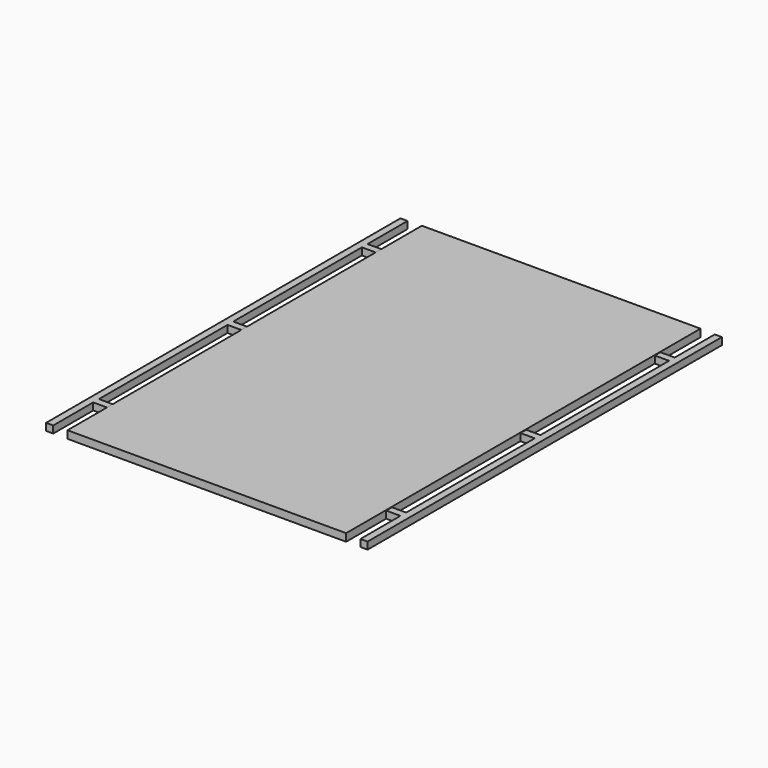
from build123d import *

# Parameters (mm, degrees)
F0_W      = 990.6
F0_H      = 1574.8
F1_DEPTH  = 1.5875
F2_W      = 990.6
F2_H      = 1574.8
F2_W_2    = 939.8
F2_H_2    = 749.3
F3_DEPTH  = 25.4
F4_W      = 25.4
F4_H      = 25.4
F5_DEPTH  = 50.8
F6_W      = 25.4
F6_H      = 25.4
F7_DEPTH  = 1574.8
F8_W      = 25.4
F8_H      = 25.4
F9_DEPTH  = 50.8
F10_W     = 25.4
F10_H     = 25.4
F11_DEPTH = 1574.8


with BuildPart() as f1:
    # F0 (on Top) → F1 (new body)
    with BuildSketch(Plane.XY):
        with Locations((495.3, -787.4)):
            Rectangle(F0_W, F0_H)
    extrude(amount=F1_DEPTH)

    # F2 (on face) → F3 (join)
    with BuildSketch(Plane(origin=(0, 0, 0), x_dir=(1, 0, 0), z_dir=(0, 0, -1))):
        with Locations((495.3, 787.4)):
            Rectangle(F2_W, F2_H)
        with Locations((495.3, 400.05)):
            Rectangle(F2_W_2, F2_H_2, mode=Mode.SUBTRACT)
        with Locations((495.3, 1174.75)):
            Rectangle(F2_W_2, F2_H_2, mode=Mode.SUBTRACT)
    extrude(amount=F3_DEPTH)

    # F4 (on face) → F5 (join)
    with BuildSketch(Plane(origin=(0, 0, 0), x_dir=(0, -1, 0), z_dir=(-1, 0, 0))):
        with Locations((190.5, -12.7)):
            Rectangle(F4_W, F4_H)
        with Locations((787.4, -12.7)):
            Rectangle(F4_W, F4_H)
        with Locations((1384.3, -12.7)):
            Rectangle(F4_W, F4_H)
    extrude(amount=F5_DEPTH)

    # F6 (on face) → F7 (join)
    with BuildSketch(Plane(origin=(0, 0, 0), x_dir=(-1, 0, 0), z_dir=(0, 1, 0))):
        with Locations((63.5, -12.7)):
            Rectangle(F6_W, F6_H)
    extrude(amount=-F7_DEPTH)

    # F8 (on face) → F9 (join)
    with BuildSketch(Plane.YZ.offset(990.6)):
        with Locations((-1384.3, -12.7)):
            Rectangle(F8_W, F8_H)
        with Locations((-787.4, -12.7)):
            Rectangle(F8_W, F8_H)
        with Locations((-190.5, -12.7)):
            Rectangle(F8_W, F8_H)
    extrude(amount=F9_DEPTH)

    # F10 (on face) → F11 (join)
    with BuildSketch(Plane(origin=(0, 0, 0), x_dir=(-1, 0, 0), z_dir=(0, 1, 0))):
        with Locations((-1054.1, -12.7)):
            Rectangle(F10_W, F10_H)
    extrude(amount=-F11_DEPTH)


solid = f1.part
